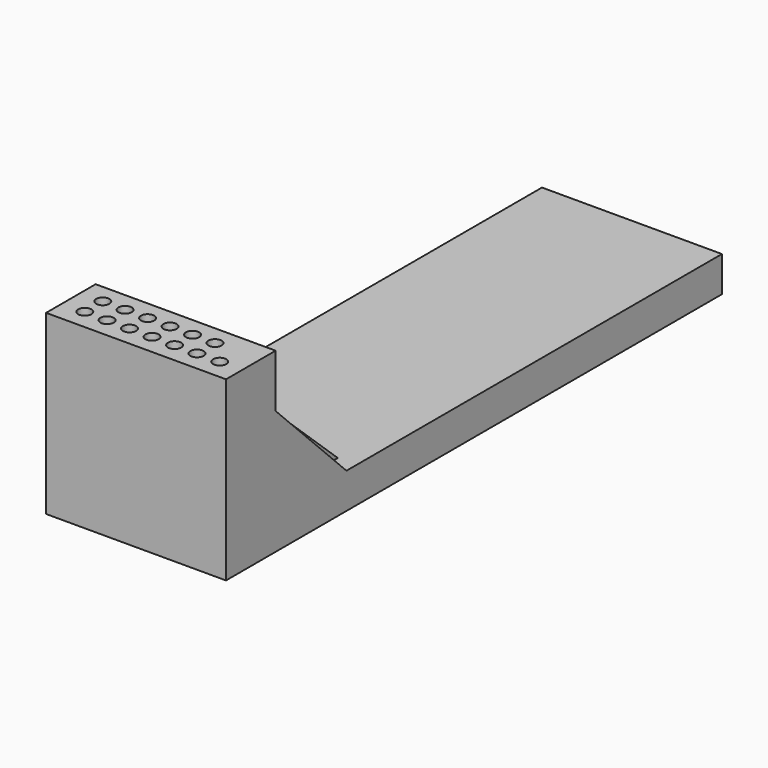
from build123d import *

# Parameters (mm, degrees)
PAD_DEPTH    = 5
PAD001_DEPTH = 5
BOX002_W     = 20.32
BOX002_H     = 63
BOX002_DEPTH = 4
BOX_W        = 20.32
BOX_H        = 7
BOX_DEPTH    = 20
SKETCH_R     = 0.75
POCKET_DEPTH = 20
CHAMFER_SIZE = 10


with BuildPart() as pad:
    # Sketch001 → Pad (new body)
    with BuildSketch(Plane.YZ.offset(-1)):
        Polygon((6.961547, 14.529416), (6.961547, 11.537694), (14.666037, 4), (18.422146, 4), align=None)
    extrude(amount=PAD_DEPTH)


with BuildPart() as pad001:
    # Sketch002 → Pad001 (new body)
    with BuildSketch(Plane.YZ.offset(10)):
        Polygon((6.961547, 14.529416), (6.961547, 11.537694), (14.666037, 4), (18.422146, 4), align=None)
    extrude(amount=PAD001_DEPTH)


with BuildPart() as cube002:
    # Box002 → Box002 (new body)
    with BuildSketch(Plane(origin=(-3.2, 7, 0), x_dir=(1, 0, 0), z_dir=(0, 0, 1))):
        with Locations((10.16, 31.5)):
            Rectangle(BOX002_W, BOX002_H)
    extrude(amount=BOX002_DEPTH)


with BuildPart() as chamfer_body:
    # Box → Box (new body)
    with BuildSketch(Plane(origin=(-3.2, 0, 0), x_dir=(1, 0, 0), z_dir=(0, 0, 1))):
        with Locations((10.16, 3.5)):
            Rectangle(BOX_W, BOX_H)
    extrude(amount=BOX_DEPTH)

    # Sketch → Pocket (cut)
    with BuildSketch(Plane(origin=(-3.2, 0, 20), x_dir=(1, 0, 0), z_dir=(0, 0, 1))):
        with Locations((5.08, 2.26)):
            Circle(SKETCH_R)
        with Locations((7.62, 2.26)):
            Circle(SKETCH_R)
        with Locations((10.16, 2.26)):
            Circle(SKETCH_R)
        with Locations((12.7, 2.26)):
            Circle(SKETCH_R)
        with Locations((15.24, 2.26)):
            Circle(SKETCH_R)
        with Locations((5.08, 4.8)):
            Circle(SKETCH_R)
        with Locations((7.62, 4.8)):
            Circle(SKETCH_R)
        with Locations((10.16, 4.8)):
            Circle(SKETCH_R)
        with Locations((12.7, 4.8)):
            Circle(SKETCH_R)
        with Locations((15.24, 4.8)):
            Circle(SKETCH_R)
        with Locations((2.54, 2.286478)):
            Circle(SKETCH_R)
        with Locations((2.54, 4.826478)):
            Circle(SKETCH_R)
        with Locations((17.78, 2.286478)):
            Circle(SKETCH_R)
    extrude(amount=-POCKET_DEPTH, mode=Mode.SUBTRACT)

    # Fusion: union Cube002
    add(cube002.part)

    # Chamfer
    chamfer_edges = [chamfer_body.edges().sort_by_distance(p)[0] for p in [
        (6.96, 7, 4),
    ]]
    chamfer(chamfer_edges, length=CHAMFER_SIZE)


solid = Compound([pad.part, pad001.part, chamfer_body.part])
